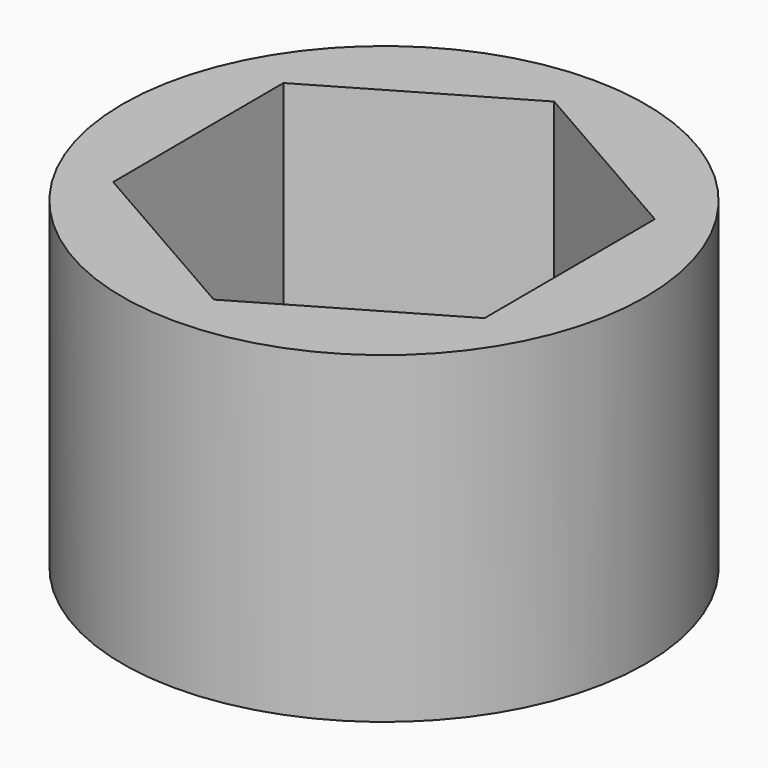
from build123d import *

# Parameters (mm, degrees)
F0_R     = 40.462362
F1_DEPTH = 50
F3_DEPTH = 45
F5_D     = 10


with BuildPart() as f1:
    # F0 (on Top) → F1 (new body)
    with BuildSketch(Plane.XY):
        Circle(F0_R)
    extrude(amount=F1_DEPTH)

    # F2 (on face) → F3 (cut)
    with BuildSketch(Plane.XY.offset(50)):
        Polygon((-0.125509, 33.096657), (-28.7253, 16.439635), (-28.599791, -16.657022), (0.125509, -33.096657), (28.7253, -16.439635), (28.599791, 16.657022), align=None)
    extrude(amount=-F3_DEPTH, mode=Mode.SUBTRACT)

    # F5 (through all)
    with Locations(Plane(origin=(0, 0, 0), x_dir=(1, 0, 0), z_dir=(0, 0, -1))):
        with Locations((0, 0)):
            Hole(F5_D / 2)


solid = f1.part
